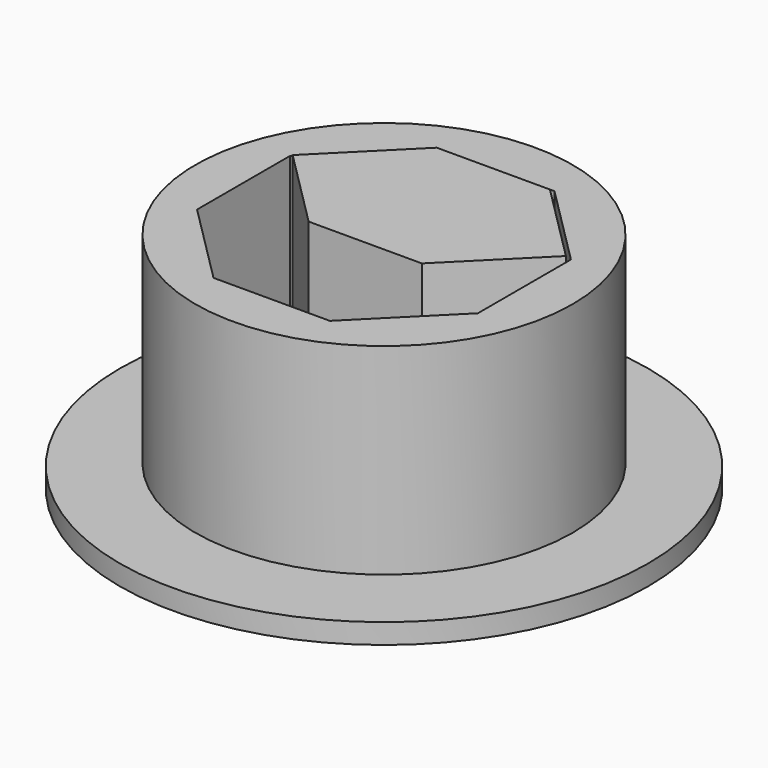
from build123d import *

# Parameters (mm, degrees)
F0_R     = 21
F1_DEPTH = 1.6
F3_DEPTH = 16.4
F5_START = 0.2
F4_R     = 15
F4_R_2   = 13.8
F5_DEPTH = 16
F7_DEPTH = 16.4
F9_DEPTH = 16


with BuildPart() as f1:
    # F0 (on Top) → F1 (new body)
    with BuildSketch(Plane.XY):
        Circle(F0_R)
    extrude(amount=F1_DEPTH)

    # F2 (on face) → F3 (join)
    with BuildSketch(Plane.XY.offset(1.6)):
        Polygon((10.8639610307, -4.5), (10.8639610307, 4.5), (4.5, 10.8639610307), (-4.5, 10.8639610307), (-10.8639610307, 4.5), (-10.8639610307, -4.5), (-4.5, -10.8639610307), (4.5, -10.8639610307), align=None)
    extrude(amount=F3_DEPTH)

    # F6 (on face) → F7 (cut, through all)
    with BuildSketch(Plane.XY.offset(18)):
        Polygon((10.8639610307, 4.5), (-10.8639610307, 4.5), (-10.8639610307, -4.5), (-4.5, -10.8639610307), (4.5, -10.8639610307), (10.8639610307, -4.5), align=None)
    extrude(amount=-F7_DEPTH, mode=Mode.SUBTRACT)

    # F8 (on face) → F9 (join)
    with BuildSketch(Plane.XY.offset(18)):
        Polygon((-4.5, 4.5), (-4.5, -1.8639610307), (4.5, -1.8639610307), (10.8639610307, 4.5), align=None)
        Polygon((-4.5, 4.5), (-10.8639610307, 4.5), (-4.5, -1.8639610307), align=None)
    extrude(amount=-F9_DEPTH)


with BuildPart() as f5:
    # F4 (on face) → F5 (new body)
    with BuildSketch(Plane.XY.offset(1.6).offset(F5_START)):
        Circle(F4_R)
        Circle(F4_R_2, mode=Mode.SUBTRACT)
        Circle(F4_R_2)
        Polygon((-11.1639610307, 4.6242640687), (-4.6242640687, 11.1639610307), (4.6242640687, 11.1639610307), (11.1639610307, 4.6242640687), (11.1639610307, -4.6242640687), (4.6242640687, -11.1639610307), (-4.6242640687, -11.1639610307), (-11.1639610307, -4.6242640687), align=None, mode=Mode.SUBTRACT)
    extrude(amount=F5_DEPTH)


solid = Compound([f1.part, f5.part])
